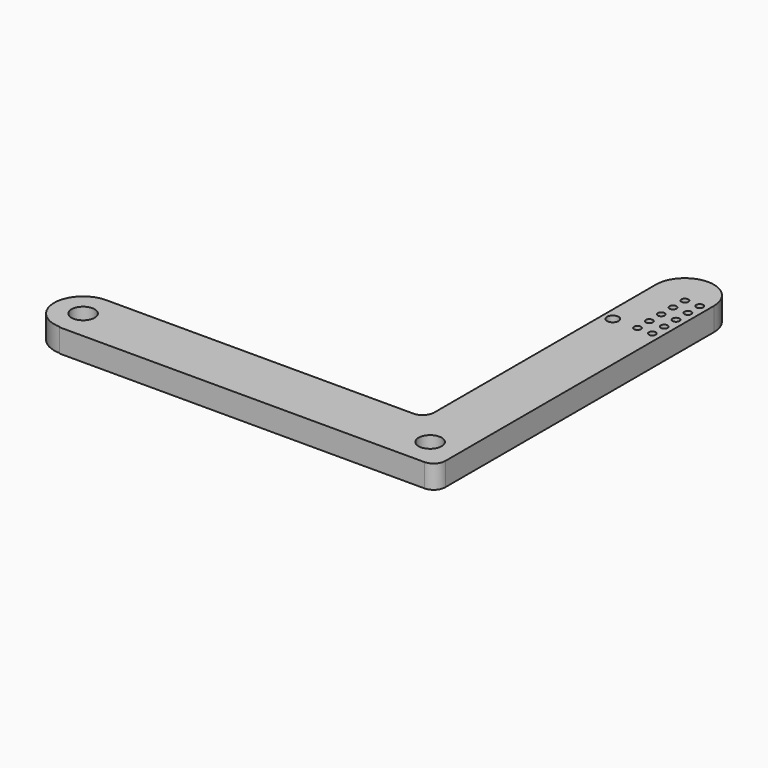
from build123d import *

# Parameters (mm, degrees)
F0_R     = 6.35
F0_R_2   = 3.175
F0_R_3   = 1.8923
F1_DEPTH = 12.7


with BuildPart() as f1:
    # F0 (on Top) → F1 (new body)
    with BuildSketch(Plane.XY):
        with BuildLine():
            Line((168.455624, 15.88135), (0, 15.88135))
            ThreePointArc((0, 15.88135), (-15.88135, 0), (0, -15.88135))
            Line((0, -15.88135), (0, -16.280698))
            Line((0, -16.280698), (174.805624, -16.280698))
            Line((174.805624, -16.280698), (190.5, -16.280698))
            Line((190.5, -16.280698), (200.231024, -16.280698))
            ThreePointArc((200.231024, -16.280698), (204.721152, -14.420826), (206.581024, -9.930698))
            Line((206.581024, -9.930698), (206.581024, 174.219302))
            ThreePointArc((206.581024, 174.219302), (190.693324, 190.107002), (174.805624, 174.219302))
            Line((174.805624, 174.219302), (174.805624, 22.23135))
            ThreePointArc((174.805624, 22.23135), (172.945752, 17.741222), (168.455624, 15.88135))
        make_face()
        Circle(F0_R, mode=Mode.SUBTRACT)
        with Locations((190.5, -0.199674)):
            Circle(F0_R, mode=Mode.SUBTRACT)
        with Locations((180.313259, 137.811854)):
            Circle(F0_R_2, mode=Mode.SUBTRACT)
        with Locations((193.809554, 137.842858)):
            Circle(F0_R_3, mode=Mode.SUBTRACT)
        with Locations((201.937554, 137.842858)):
            Circle(F0_R_3, mode=Mode.SUBTRACT)
        with Locations((193.809554, 145.970858)):
            Circle(F0_R_3, mode=Mode.SUBTRACT)
        with Locations((201.937554, 145.970858)):
            Circle(F0_R_3, mode=Mode.SUBTRACT)
        with Locations((193.809554, 154.098858)):
            Circle(F0_R_3, mode=Mode.SUBTRACT)
        with Locations((201.937554, 154.098858)):
            Circle(F0_R_3, mode=Mode.SUBTRACT)
        with Locations((193.809554, 162.226858)):
            Circle(F0_R_3, mode=Mode.SUBTRACT)
        with Locations((201.937554, 162.226858)):
            Circle(F0_R_3, mode=Mode.SUBTRACT)
        with Locations((193.809554, 170.354858)):
            Circle(F0_R_3, mode=Mode.SUBTRACT)
        with Locations((201.937554, 170.354858)):
            Circle(F0_R_3, mode=Mode.SUBTRACT)
    extrude(amount=F1_DEPTH)


solid = f1.part
